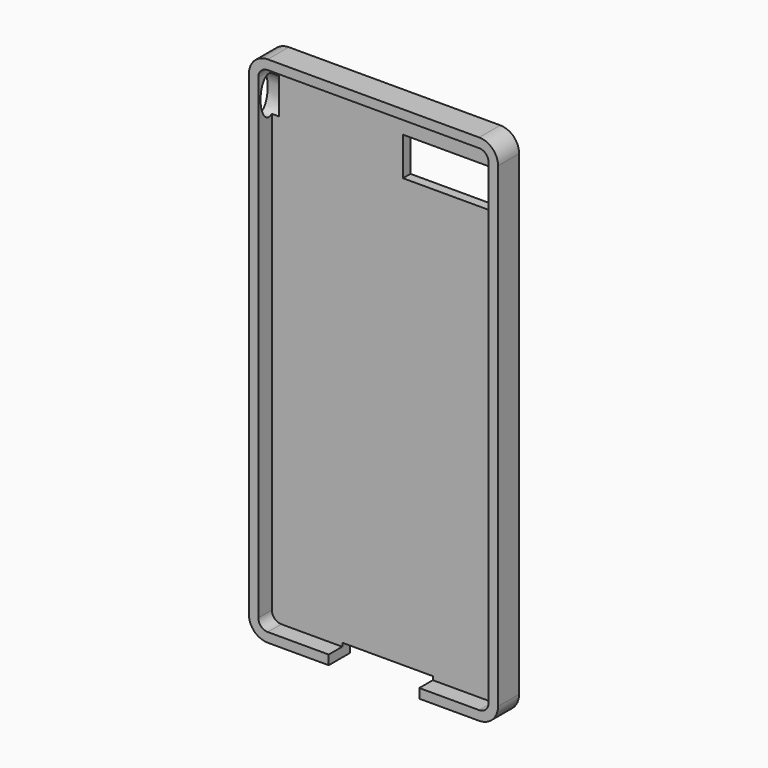
from build123d import *

# Parameters (mm, degrees)
F0_W     = 67.1
F0_H     = 138.3
F1_DEPTH = 3.55
F2_R     = 5.08
F3_T     = -2.54
F4_W     = 23.811473
F4_H     = 10.327872
F5_DEPTH = 12.5
F6_W     = 24.385246
F6_H     = 7.1
F7_DEPTH = 3.5
F9_DEPTH = 4.5


with BuildPart() as f1:
    # F0 (on Front) → F1 (new body, symmetric)
    with BuildSketch(Plane.XZ):
        Rectangle(F0_W, F0_H)
    extrude(amount=F1_DEPTH, both=True)

    # F2
    f2_edges = [f1.edges().sort_by_distance(p)[0] for p in [
        (-33.55, 0, 69.15),
        (33.55, 0, 69.15),
        (33.55, 0, -69.15),
        (-33.55, 0, -69.15),
    ]]
    fillet(f2_edges, radius=F2_R)

    # F3
    f3_openings = [f1.faces().sort_by_distance(p)[0] for p in [
        (0, -3.55, 0),
    ]]
    offset(amount=F3_T, openings=f3_openings)

    # F4 (on Front) → F5 (cut, symmetric)
    with BuildSketch(Plane.XZ):
        with Locations((16.209017, 54.938527)):
            Rectangle(F4_W, F4_H)
    extrude(amount=F5_DEPTH, both=True, mode=Mode.SUBTRACT)

    # F6 (on face) → F7 (cut, symmetric)
    with BuildSketch(Plane(origin=(0, 0, -69.15), x_dir=(1, 0, 0), z_dir=(0, 0, -1))):
        with Locations((0.143443, 0)):
            Rectangle(F6_W, F6_H)
    extrude(amount=F7_DEPTH, both=True, mode=Mode.SUBTRACT)

    # F8 (on face) → F9 (cut, symmetric)
    with BuildSketch(Plane(origin=(-33.55, 0, 0), x_dir=(0, -1, 0), z_dir=(-1, 0, 0))):
        with BuildLine():
            add(Edge.make_bspline(
                [(0, 53.217217), (4.854199, 53.217217), (2.427099, 60.963118), (0, 68.70902), (-2.427099, 60.963118), (-4.854199, 53.217217), (0, 53.217217)],
                knots=[0, 0, 0, 2.094395, 2.094395, 4.18879, 4.18879, 6.283185, 6.283185, 6.283185], degree=2, weights=[1, 0.5, 1, 0.5, 1, 0.5, 1]))
        make_face()
    extrude(amount=F9_DEPTH, both=True, mode=Mode.SUBTRACT)


solid = f1.part
